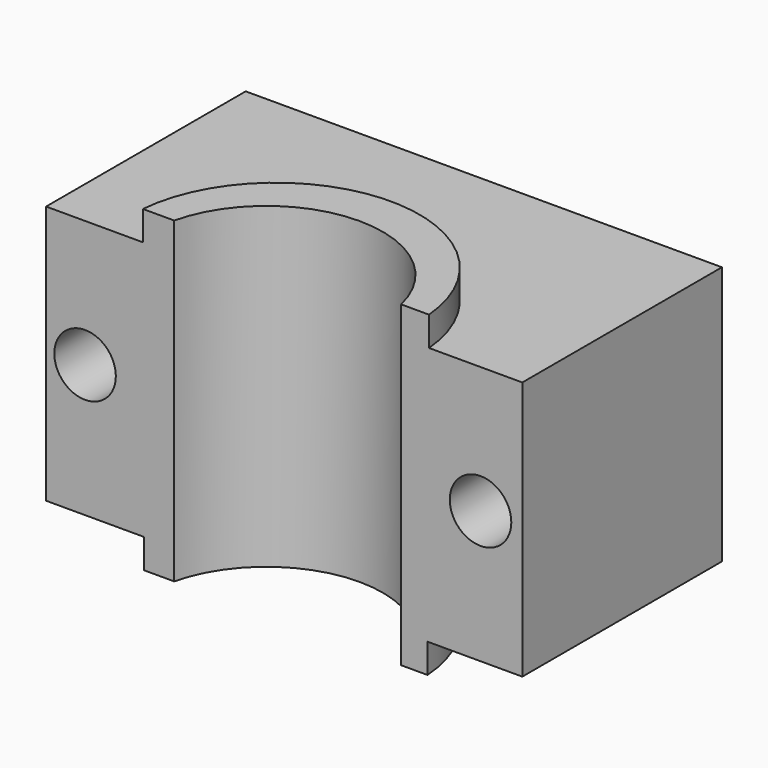
from build123d import *

# Parameters (mm, degrees)
F0_W     = 82.4199393392
F0_H     = 44.8248814791
F0_R     = 5.3237338681
F1_DEPTH = 43.18
F3_DEPTH = 50.8
F5_DEPTH = 5.08
F7_DEPTH = 5.08


with BuildPart() as f1:
    # F0 (on Front) → F1 (new body)
    with BuildSketch(Plane.XZ):
        with Locations((-3.7354081869, -4.2173946276)):
            Rectangle(F0_W, F0_H)
        with Locations((-38.1975471973, -3.7354065571)):
            Circle(F0_R, mode=Mode.SUBTRACT)
        with Locations((30.2447415888, -3.7354065571)):
            Circle(F0_R, mode=Mode.SUBTRACT)
    extrude(amount=F1_DEPTH)

    # F2 (on face) → F3 (cut)
    with BuildSketch(Plane(origin=(0, 0, -26.6298353672), x_dir=(1, 0, 0), z_dir=(0, 0, -1))):
        with BuildLine():
            Line((16.5080875158, 43.18), (-22.7739289403, 43.18))
            ThreePointArc((-22.7739289403, 43.18), (-3.1329207122, 27.6417514992), (16.5080875158, 43.18))
        make_face()
    extrude(amount=-F3_DEPTH, mode=Mode.SUBTRACT)

    # F4 (on face) → F5 (join)
    with BuildSketch(Plane(origin=(0, 0, -26.6298353672), x_dir=(1, 0, 0), z_dir=(0, 0, -1))):
        with BuildLine():
            Line((-22.7739289403, 43.18), (-27.9714372009, 43.18))
            ThreePointArc((-27.9714372009, 43.18), (-3.4506693482, 20.3081134408), (21.0700985044, 43.18))
            Line((21.0700985044, 43.18), (16.5080875158, 43.18))
            ThreePointArc((16.5080875158, 43.18), (-3.1329207122, 27.6417514992), (-22.7739289403, 43.18))
        make_face()
    extrude(amount=F5_DEPTH)

    # F6 (on face) → F7 (join)
    with BuildSketch(Plane.XY.offset(18.1950461119)):
        with BuildLine():
            Line((16.5080875158, -43.18), (21.3290713727, -43.18))
            ThreePointArc((21.3290713727, -43.18), (-3.4313481301, -20.4979947498), (-28.191767633, -43.18))
            Line((-28.191767633, -43.18), (-22.7739289403, -43.18))
            ThreePointArc((-22.7739289403, -43.18), (-3.1329207122, -27.6417514992), (16.5080875158, -43.18))
        make_face()
    extrude(amount=F7_DEPTH)


solid = f1.part
